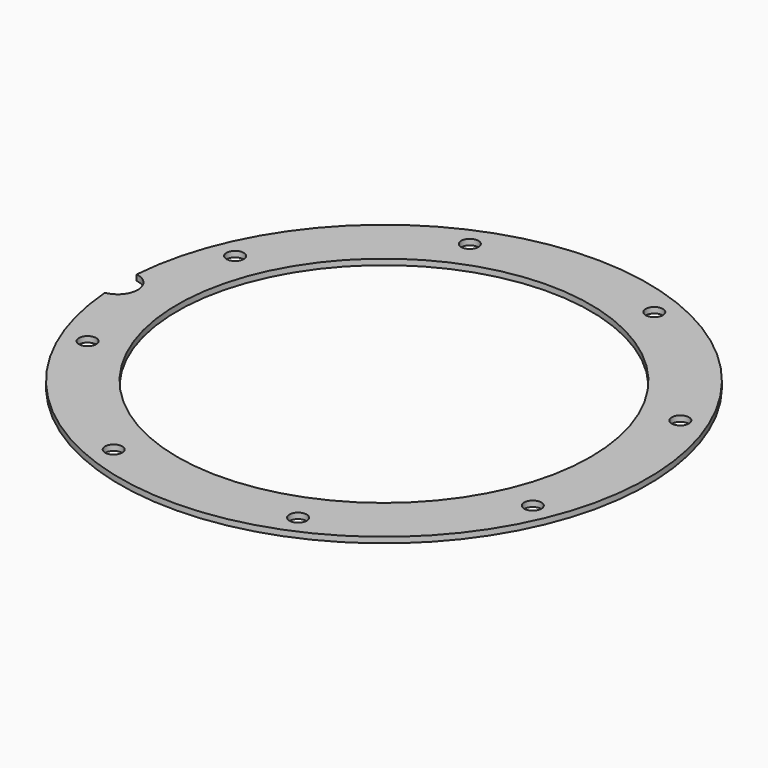
from build123d import *

# Parameters (mm, degrees)
BOX433_W                     = 6
BOX433_H                     = 8
BOX433_DEPTH                 = 2
BOX433_PLACEMENT_ANGLE       = 45
BOX435_W                     = 6
BOX435_H                     = 8
BOX435_DEPTH                 = 2
BOX426_W                     = 6
BOX426_H                     = 8
BOX426_DEPTH                 = 2
BOX438_W                     = 6
BOX438_H                     = 8
BOX438_DEPTH                 = 2
BOX438_PLACEMENT_ANGLE       = 135
BOX436_W                     = 6
BOX436_H                     = 8
BOX436_DEPTH                 = 2
BOX440_W                     = 6
BOX440_H                     = 8
BOX440_DEPTH                 = 2
BOX440_PLACEMENT_ANGLE       = 225
BOX429_W                     = 6
BOX429_H                     = 8
BOX429_DEPTH                 = 2
BOX439_W                     = 6
BOX439_H                     = 8
BOX439_DEPTH                 = 2
BOX439_PLACEMENT_ANGLE       = 45
COMPOUND873_PLACEMENT_ANGLE  = 22.5
CYLINDER1120_R               = 1.5
CYLINDER1120_DEPTH           = 12
CYLINDER1120_PLACEMENT_ANGLE = 45
CYLINDER1128_R               = 1.5
CYLINDER1128_DEPTH           = 12
CYLINDER1126_R               = 1.5
CYLINDER1126_DEPTH           = 12
CYLINDER1126_PLACEMENT_ANGLE = 135
CYLINDER1125_R               = 1.5
CYLINDER1125_DEPTH           = 12
CYLINDER1127_R               = 1.5
CYLINDER1127_DEPTH           = 12
CYLINDER1127_PLACEMENT_ANGLE = 225
CYLINDER1124_R               = 1.5
CYLINDER1124_DEPTH           = 12
CYLINDER1119_R               = 1.5
CYLINDER1119_DEPTH           = 12
CYLINDER1119_PLACEMENT_ANGLE = 45
CYLINDER1122_R               = 1.5
CYLINDER1122_DEPTH           = 12
COMPOUND874_PLACEMENT_ANGLE  = 22.5
CYLINDER1117_R               = 3.5
CYLINDER1117_DEPTH           = 20
TUBE101_R                    = 46
TUBE101_R_2                  = 36
TUBE101_DEPTH                = 1


with BuildPart() as krychle433:
    # Box433 → Box433 (new body)
    with BuildSketch(Plane.XY):
        with Locations((3, 4)):
            Rectangle(BOX433_W, BOX433_H)
    extrude(amount=BOX433_DEPTH)


with BuildPart() as krychle433_1:
    # Box433 placement: moved
    add(krychle433.part.moved(Location((30.405592, -34.648232, 33))).rotate(Axis((30.405592, -34.648232, 33), (0, 0, 1)), BOX433_PLACEMENT_ANGLE))


with BuildPart() as krychle435:
    # Box435 → Box435 (new body)
    with BuildSketch(Plane(origin=(46, -3, 33), x_dir=(0, 1, 0), z_dir=(0, 0, 1))):
        with Locations((3, 4)):
            Rectangle(BOX435_W, BOX435_H)
    extrude(amount=BOX435_DEPTH)


with BuildPart() as krychle426:
    # Box426 → Box426 (new body)
    with BuildSketch(Plane(origin=(-3, -46, 33), x_dir=(1, 0, 0), z_dir=(0, 0, 1))):
        with Locations((3, 4)):
            Rectangle(BOX426_W, BOX426_H)
    extrude(amount=BOX426_DEPTH)


with BuildPart() as krychle438:
    # Box438 → Box438 (new body)
    with BuildSketch(Plane.XY):
        with Locations((3, 4)):
            Rectangle(BOX438_W, BOX438_H)
    extrude(amount=BOX438_DEPTH)


with BuildPart() as krychle438_1:
    # Box438 placement: moved
    add(krychle438.part.moved(Location((34.648232, 30.405592, 33))).rotate(Axis((34.648232, 30.405592, 33), (0, 0, 1)), BOX438_PLACEMENT_ANGLE))


with BuildPart() as krychle436:
    # Box436 → Box436 (new body)
    with BuildSketch(Plane(origin=(3, 46, 33), x_dir=(-1, 0, 0), z_dir=(0, 0, 1))):
        with Locations((3, 4)):
            Rectangle(BOX436_W, BOX436_H)
    extrude(amount=BOX436_DEPTH)


with BuildPart() as krychle440:
    # Box440 → Box440 (new body)
    with BuildSketch(Plane.XY):
        with Locations((3, 4)):
            Rectangle(BOX440_W, BOX440_H)
    extrude(amount=BOX440_DEPTH)


with BuildPart() as krychle440_1:
    # Box440 placement: moved
    add(krychle440.part.moved(Location((-30.405592, 34.648232, 33))).rotate(Axis((-30.405592, 34.648232, 33), (0, 0, 1)), BOX440_PLACEMENT_ANGLE))


with BuildPart() as krychle429:
    # Box429 → Box429 (new body)
    with BuildSketch(Plane(origin=(-46, 3, 33), x_dir=(0, -1, 0), z_dir=(0, 0, 1))):
        with Locations((3, 4)):
            Rectangle(BOX429_W, BOX429_H)
    extrude(amount=BOX429_DEPTH)


with BuildPart() as compound873:
    # Box439 → Box439 (new body)
    with BuildSketch(Plane.XY):
        with Locations((3, 4)):
            Rectangle(BOX439_W, BOX439_H)
    extrude(amount=BOX439_DEPTH)


with BuildPart() as compound873_1:
    # Box439 placement: moved
    add(compound873.part.moved(Location((-34.648232, -30.405592, 33))).rotate(Axis((-34.648232, -30.405592, 33), (0, 0, -1)), BOX439_PLACEMENT_ANGLE))

    # Compound873: union Krychle433, Krychle435, Krychle426, Krychle438, Krychle436, Krychle440, Krychle429
    add(krychle433_1.part)
    add(krychle435.part)
    add(krychle426.part)
    add(krychle438_1.part)
    add(krychle436.part)
    add(krychle440_1.part)
    add(krychle429.part)


with BuildPart() as compound873_2:
    # Compound873 placement: moved
    add(compound873_1.part.moved(Location((0, 0, 7))).rotate(Axis((0, 0, 7), (0, 0, 1)), COMPOUND873_PLACEMENT_ANGLE))


with BuildPart() as obj1:
    # Cylinder1120 → Cylinder1120 (new body)
    with BuildSketch(Plane.XY):
        Circle(CYLINDER1120_R)
    extrude(amount=CYLINDER1120_DEPTH)


with BuildPart() as obj1_1:
    # Cylinder1120 placement: moved
    add(obj1.part.moved(Location((29.698485, -29.698485, 33.5))).rotate(Axis((29.698485, -29.698485, 33.5), (0, 0, 1)), CYLINDER1120_PLACEMENT_ANGLE))


with BuildPart() as obj2:
    # Cylinder1128 → Cylinder1128 (new body)
    with BuildSketch(Plane(origin=(42, 0, 33.5), x_dir=(0, 1, 0), z_dir=(0, 0, 1))):
        Circle(CYLINDER1128_R)
    extrude(amount=CYLINDER1128_DEPTH)


with BuildPart() as obj3:
    # Cylinder1126 → Cylinder1126 (new body)
    with BuildSketch(Plane.XY):
        Circle(CYLINDER1126_R)
    extrude(amount=CYLINDER1126_DEPTH)


with BuildPart() as obj3_1:
    # Cylinder1126 placement: moved
    add(obj3.part.moved(Location((29.698485, 29.698485, 33.5))).rotate(Axis((29.698485, 29.698485, 33.5), (0, 0, 1)), CYLINDER1126_PLACEMENT_ANGLE))


with BuildPart() as obj4:
    # Cylinder1125 → Cylinder1125 (new body)
    with BuildSketch(Plane(origin=(0, 42, 33.5), x_dir=(-1, 0, 0), z_dir=(0, 0, 1))):
        Circle(CYLINDER1125_R)
    extrude(amount=CYLINDER1125_DEPTH)


with BuildPart() as obj5:
    # Cylinder1127 → Cylinder1127 (new body)
    with BuildSketch(Plane.XY):
        Circle(CYLINDER1127_R)
    extrude(amount=CYLINDER1127_DEPTH)


with BuildPart() as obj5_1:
    # Cylinder1127 placement: moved
    add(obj5.part.moved(Location((-29.698485, 29.698485, 33.5))).rotate(Axis((-29.698485, 29.698485, 33.5), (0, 0, 1)), CYLINDER1127_PLACEMENT_ANGLE))


with BuildPart() as obj6:
    # Cylinder1124 → Cylinder1124 (new body)
    with BuildSketch(Plane(origin=(-42, 0, 33.5), x_dir=(0, -1, 0), z_dir=(0, 0, 1))):
        Circle(CYLINDER1124_R)
    extrude(amount=CYLINDER1124_DEPTH)


with BuildPart() as obj7:
    # Cylinder1119 → Cylinder1119 (new body)
    with BuildSketch(Plane.XY):
        Circle(CYLINDER1119_R)
    extrude(amount=CYLINDER1119_DEPTH)


with BuildPart() as obj7_1:
    # Cylinder1119 placement: moved
    add(obj7.part.moved(Location((-29.698485, -29.698485, 33.5))).rotate(Axis((-29.698485, -29.698485, 33.5), (0, 0, -1)), CYLINDER1119_PLACEMENT_ANGLE))


with BuildPart() as compound874:
    # Cylinder1122 → Cylinder1122 (new body)
    with BuildSketch(Plane(origin=(0, -42, 33.5), x_dir=(1, 0, 0), z_dir=(0, 0, 1))):
        Circle(CYLINDER1122_R)
    extrude(amount=CYLINDER1122_DEPTH)

    # Compound874: union obj1, obj2, obj3, obj4, obj5, obj6, obj7
    add(obj1_1.part)
    add(obj2.part)
    add(obj3_1.part)
    add(obj4.part)
    add(obj5_1.part)
    add(obj6.part)
    add(obj7_1.part)


with BuildPart() as compound874_1:
    # Compound874 placement: moved
    add(compound874.part.moved(Location((0, 0, 4))).rotate(Axis((0, 0, 4), (0, 0, 1)), COMPOUND874_PLACEMENT_ANGLE))


with BuildPart() as obj8:
    # Cylinder1117 → Cylinder1117 (new body)
    with BuildSketch(Plane(origin=(-46.4, 0, 34), x_dir=(1, 0, 0), z_dir=(0, 0, 1))):
        Circle(CYLINDER1117_R)
    extrude(amount=CYLINDER1117_DEPTH)


with BuildPart() as cut422:
    # Tube101 → Tube101 (new body)
    with BuildSketch(Plane.XY.offset(45)):
        Circle(TUBE101_R)
        Circle(TUBE101_R_2, mode=Mode.SUBTRACT)
    extrude(amount=TUBE101_DEPTH)

    # Cut424: cut obj8
    add(obj8.part, mode=Mode.SUBTRACT)

    # Cut425: cut Compound874
    add(compound874_1.part, mode=Mode.SUBTRACT)

    # Cut422: cut Compound873
    add(compound873_2.part, mode=Mode.SUBTRACT)


solid = cut422.part
